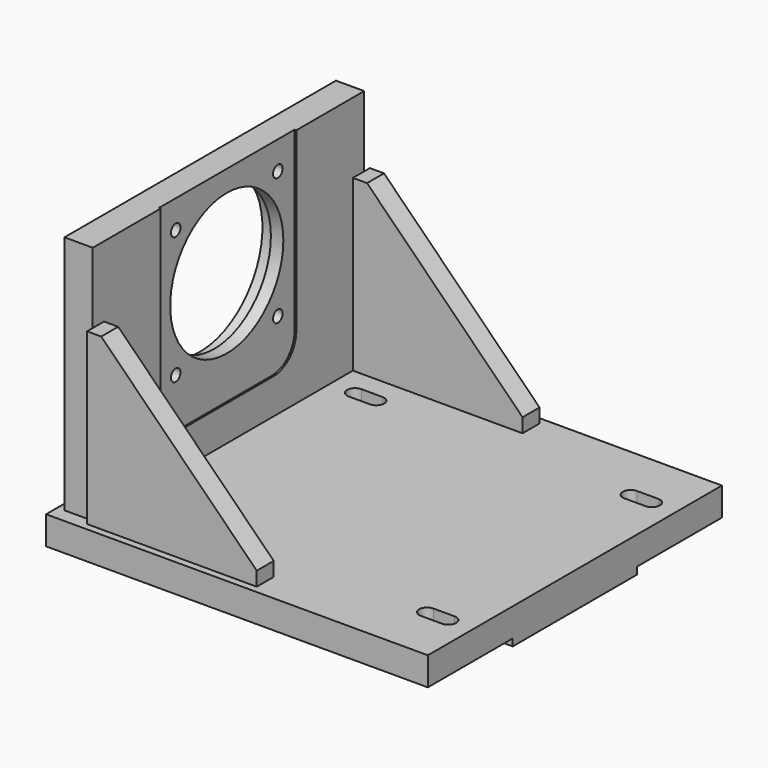
from build123d import *

# Parameters (mm, degrees)
F0_W           = 342.9
F0_H           = 330.2
F1_DEPTH       = 25.4
F2_W           = 342.9
F2_H           = 139.7
F3_DEPTH       = 6.35
F4_W           = 25.4
F4_H           = 304.8
F5_DEPTH       = 215.9
F7_D           = 127
F7_CBORE_D     = 139.7
F7_CBORE_DEPTH = 12.7
F9_DEPTH       = 1.524
F11_D          = 10.71626
F12_W          = 152.4
F12_H          = 19.05
F13_DEPTH      = 152.4
F14_SIZE       = 139.7


with BuildPart() as f1:
    # F0 (on Top) → F1 (new body)
    with BuildSketch(Plane.XY):
        Rectangle(F0_W, F0_H)
        with BuildLine():
            Line((-98.425, -121.412), (-117.475, -121.412))
            ThreePointArc((-117.475, -121.412), (-124.587, -114.3), (-117.475, -107.188))
            Line((-117.475, -107.188), (-98.425, -107.188))
            ThreePointArc((-98.425, -107.188), (-91.313, -114.3), (-98.425, -121.412))
        make_face(mode=Mode.SUBTRACT)
        with BuildLine():
            Line((149.225, -121.412), (130.175, -121.412))
            ThreePointArc((130.175, -121.412), (123.063, -114.3), (130.175, -107.188))
            Line((130.175, -107.188), (149.225, -107.188))
            ThreePointArc((149.225, -107.188), (156.337, -114.3), (149.225, -121.412))
        make_face(mode=Mode.SUBTRACT)
        with BuildLine():
            Line((-98.425, 107.188), (-117.475, 107.188))
            ThreePointArc((-117.475, 107.188), (-124.587, 114.3), (-117.475, 121.412))
            Line((-117.475, 121.412), (-98.425, 121.412))
            ThreePointArc((-98.425, 121.412), (-91.313, 114.3), (-98.425, 107.188))
        make_face(mode=Mode.SUBTRACT)
        with BuildLine():
            Line((149.225, 107.188), (130.175, 107.188))
            ThreePointArc((130.175, 107.188), (123.063, 114.3), (130.175, 121.412))
            Line((130.175, 121.412), (149.225, 121.412))
            ThreePointArc((149.225, 121.412), (156.337, 114.3), (149.225, 107.188))
        make_face(mode=Mode.SUBTRACT)
    extrude(amount=-F1_DEPTH)

    # F2 (on face) → F3 (join)
    with BuildSketch(Plane(origin=(0, 0, -25.4), x_dir=(1, 0, 0), z_dir=(0, 0, -1))):
        Rectangle(F2_W, F2_H)
    extrude(amount=F3_DEPTH)

    # F4 (on face) → F5 (join)
    with BuildSketch(Plane.XY):
        with Locations((-152.4, 0)):
            Rectangle(F4_W, F4_H)
    extrude(amount=F5_DEPTH)

    # F7 (through all)
    with Locations(Plane(origin=(-165.1, 0, 0), x_dir=(0, -1, 0), z_dir=(-1, 0, 0))):
        with Locations((0, 133.35)):
            CounterBoreHole(F7_D / 2, F7_CBORE_D / 2, F7_CBORE_DEPTH)

    # F8 (on face) → F9 (cut)
    with BuildSketch(Plane.YZ.offset(-139.7)):
        with BuildLine():
            Line((0, 31.75), (50.8, 31.75))
            ThreePointArc((50.8, 31.75), (68.7605122421, 39.1894877579), (76.2, 57.15))
            Line((76.2, 57.15), (76.2, 215.9))
            Line((76.2, 215.9), (0, 215.9))
            Line((0, 215.9), (0, 31.75))
        make_face()
        with BuildLine():
            Line((-50.8, 31.75), (0, 31.75))
            Line((0, 31.75), (0, 215.9))
            Line((0, 215.9), (-76.2, 215.9))
            Line((-76.2, 215.9), (-76.2, 57.15))
            ThreePointArc((-76.2, 57.15), (-68.7605122421, 39.1894877579), (-50.8, 31.75))
        make_face()
    extrude(amount=-F9_DEPTH, mode=Mode.SUBTRACT)

    # F11 (through all)
    with Locations(Plane.YZ.offset(-141.224)):
        with Locations((57.2940340524, 190.6440340524), (57.2940340524, 76.0559659476), (-57.2940340524, 76.0559659476), (-57.2940340524, 190.6440340524)):
            Hole(F11_D / 2)

    # F12 (on face) → F13 (join)
    with BuildSketch(Plane.XY):
        with Locations((-63.5, 149.225)):
            Rectangle(F12_W, F12_H)
        with Locations((-63.5, -149.225)):
            Rectangle(F12_W, F12_H)
    extrude(amount=F13_DEPTH)

    # F14
    f14_edges = [f1.edges().sort_by_distance(p)[0] for p in [
        (12.7, 149.225, 152.4),
        (12.7, -149.225, 152.4),
    ]]
    chamfer(f14_edges, length=F14_SIZE)


solid = f1.part
